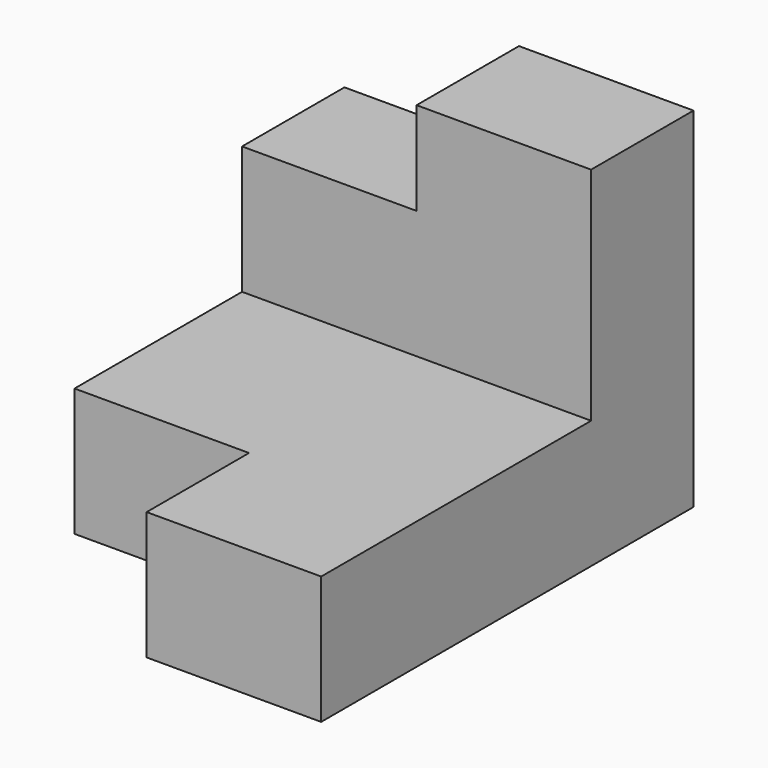
from build123d import *

# Parameters (mm, degrees)
F1_DEPTH = 30
F2_W     = 11
F2_H     = 15
F3_DEPTH = 11
F4_W     = 15
F4_H     = 8
F5_DEPTH = 11
F6_ANGLE = -90


with BuildPart() as f1:
    # F0 (on Front) → F1 (new body)
    with BuildSketch(Plane.XZ):
        Polygon((0, 30), (0, 0), (40, 0), (40, 11), (11, 11), (11, 30), align=None)
    extrude(amount=F1_DEPTH)

    # F2 (on face) → F3 (cut, through all)
    with BuildSketch(Plane.XY.offset(11)):
        with Locations((34.5, -22.5)):
            Rectangle(F2_W, F2_H)
    extrude(amount=-F3_DEPTH, mode=Mode.SUBTRACT)

    # F4 (on face) → F5 (cut, through all)
    with BuildSketch(Plane.YZ.offset(11)):
        with Locations((-22.5, 26)):
            Rectangle(F4_W, F4_H)
    extrude(amount=-F5_DEPTH, mode=Mode.SUBTRACT)


with BuildPart() as f1_1:
    # F6: moved
    add(f1.part.rotate(Axis((0, 0, 15), (0, 0, 1)), F6_ANGLE))


solid = f1_1.part
